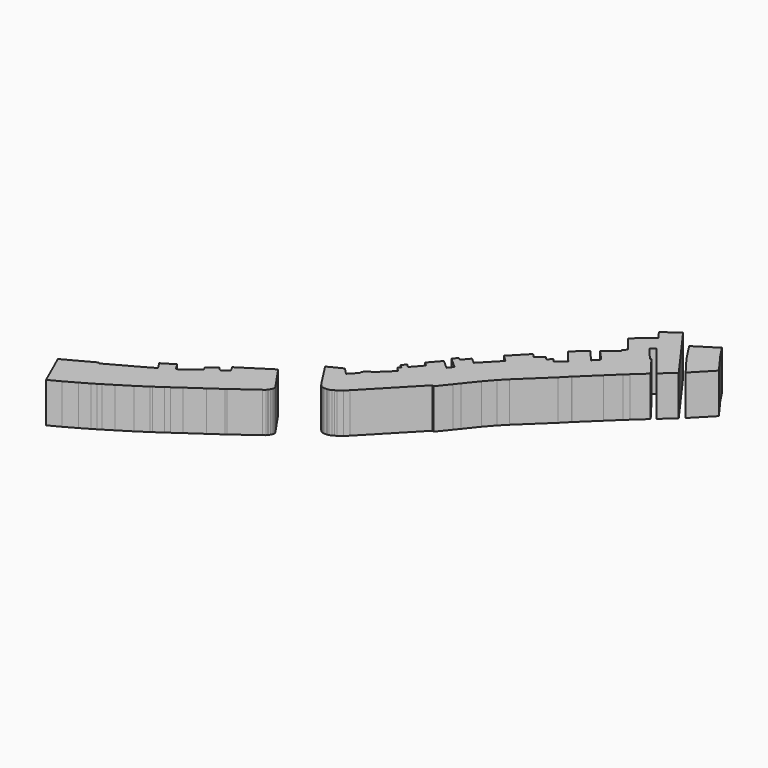
from build123d import *

# Parameters (mm, degrees)
F1_DEPTH = 350


with BuildPart() as f1:
    # F0 (on Top) → F1 (new body)
    with BuildSketch(Plane.XY):
        Polygon((-1735.5947, -1544.670012), (-1630.1847, -1782.160012), (-1606.0547, -1835.500012), (-1508.2647, -1784.700012), (-1407.9347, -1728.820012), (-1333.0047, -1685.386012), (-1443.4947, -1505.300012), (-1432.0647, -1497.680012), (-1475.2447, -1420.210012), (-1485.4047, -1410.050012), (-1556.5247, -1448.150012), align=None)
        Polygon((-1443.4947, -1505.300012), (-1333.0047, -1685.386012), (-1298.7147, -1665.320012), (-1268.2347, -1646.270012), (-1192.0347, -1599.280012), (-1081.5447, -1530.192012), (-1239.0247, -1290.670012), (-1376.1847, -1365.600012), (-1475.2447, -1420.210012), (-1432.0647, -1497.680012), align=None)
        Polygon((-1136.1547, -1232.250012), (-1239.0247, -1290.670012), (-1081.5447, -1530.192012), (-991.3747, -1471.010012), (-977.1507, -1461.358012), (-1117.6127, -1222.598012), align=None)
        Polygon((-1157.7447, -1161.130012), (-1117.6127, -1222.598012), (-977.1507, -1461.358012), (-908.8247, -1415.130012), (-873.2647, -1389.730012), (-1012.9647, -1159.860012), (-1051.0647, -1096.360012), align=None)
        Polygon((-557.0347, -1168.750012), (-708.1647, -937.610012), (-767.8547, -983.330012), (-794.5247, -956.660012), (-875.8047, -1015.080012), (-859.2947, -1045.560012), (-899.9347, -1074.770012), (-927.8747, -1096.360012), (-998.9947, -1149.700012), (-1012.9647, -1159.860012), (-873.2647, -1389.730012), (-804.6847, -1341.470012), (-672.6047, -1250.030012), (-568.4647, -1177.640012), align=None)
        Polygon((-546.8747, -777.590012), (-731.0247, -895.700012), (-708.1647, -937.610012), (-557.0347, -1168.750012), (-360.1847, -1026.510012), align=None)
        Polygon((-465.5947, -725.520012), (-546.8747, -777.590012), (-360.1847, -1026.510012), (-342.4047, -1012.540012), (-336.0547, -1006.190012), (-329.7047, -998.570012), (-323.3547, -985.870012), (-318.2747, -974.440012), (-315.7347, -969.360012), (-314.4647, -961.740012), (-313.1947, -955.390012), (-314.4647, -949.040012), (-317.0047, -942.690012), (-318.2747, -940.150012), align=None)
        Polygon((-118.8847, -429.610012), (-242.0747, -491.840012), (-106.1847, -702.660012), (-93.4847, -720.440012), (-75.7047, -736.950012), (-68.0847, -740.760012), (-57.9247, -744.570012), (-47.7647, -745.840012), (-26.1747, -745.840012), (-18.5547, -744.570012), (-5.8547, -742.030012), (10.6553, -734.410012), (27.1653, -725.520012), (42.4053, -715.360012), (76.6953, -689.960012), (109.7153, -659.480012), (504.6853, -249.270012), (352.2853, -113.380012), (287.5153, -49.880012), (203.6953, -145.130012), (177.0253, -118.460012), (146.5453, -152.750012), (173.2153, -176.880012), (152.8953, -197.200012), (189.7253, -232.760012), (146.5453, -272.130012), (61.4553, -354.680012), (46.2153, -357.220012), (42.4053, -358.490012), (37.3253, -361.030012), (25.8953, -369.920012), (20.8153, -375.000012), (18.2753, -376.270012), (8.1153, -388.970012), (5.5753, -396.590012), (3.0353, -405.480012), (1.7653, -414.370012), (1.7653, -419.450012), (-63.0047, -486.760012), align=None)
        Polygon((352.2853, -113.380012), (504.6853, -249.270012), (518.6553, -256.890012), (602.4753, -152.242012), (439.9153, -11.780012), (417.0553, 11.079988), (339.5853, 78.389988), (254.4953, -19.400012), (287.5153, -49.880012), align=None)
        Polygon((452.6153, 54.259988), (638.5433, -107.030012), (726.9353, 3.459988), (515.8613, 184.561988), (467.8553, 225.709988), (411.9753, 159.669988), (392.9253, 177.449988), (357.3653, 138.079988), align=None)
        Polygon((439.9153, -11.780012), (602.4753, -152.242012), (638.5433, -107.030012), (452.6153, 54.259988), (417.0553, 11.079988), align=None)
        Polygon((515.8613, 184.561988), (726.9353, 3.459988), (799.3253, 86.009988), (859.0153, 146.969988), (779.0053, 229.519988), (667.2453, 341.279988), align=None)
        Polygon((779.0053, 229.519988), (859.0153, 146.969988), (1098.2833, 375.061988), (931.4053, 536.859988), (906.0053, 568.609988), (871.7153, 533.049988), (843.7753, 560.989988), (784.0853, 505.109988), (751.0653, 539.399988), (611.3653, 394.619988), (667.2453, 341.279988), align=None)
        Polygon((931.4053, 536.859988), (1098.2833, 375.061988), (1165.0853, 442.879988), (1006.5893, 606.455988), (936.4853, 541.939988), align=None)
        Polygon((1006.5893, 606.455988), (1165.0853, 442.879988), (1166.3553, 444.149988), (1322.5653, 594.009988), (1166.3553, 764.189988), (1118.0953, 713.389988), (1031.9893, 813.973988), (1027.9253, 818.799988), (912.3553, 717.199988), (979.6653, 633.379988), align=None)
        Polygon((1166.3553, 764.189988), (1322.5653, 594.009988), (1417.8153, 685.449988), (1454.8993, 719.485988), (1283.1953, 912.779988), (1217.1553, 994.059988), (1185.4053, 963.579988), (1191.7553, 950.879988), (1082.5353, 856.899988), align=None)
        Polygon((1283.1953, 912.779988), (1454.8993, 719.485988), (1558.7853, 814.227988), (1428.2293, 985.423988), (1420.3553, 978.819988), (1320.0253, 1098.199988), (1356.8553, 1129.949988), (1269.2253, 1259.489988), (1264.1453, 1255.679988), (1232.1413, 1227.993988), (1113.0153, 1124.869988), (1184.8973, 1034.445988), (1217.1553, 994.059988), align=None)
        Polygon((1454.1373, 1007.267988), (1586.9793, 839.881988), (1700.5173, 943.513988), (1581.6453, 1108.613988), (1352.5373, 1426.113988), (1225.0293, 1333.149988), (1218.9333, 1328.577988), (1269.2253, 1259.489988), (1356.8553, 1129.949988), align=None)
        Polygon((1614.6653, 1135.029988), (1735.3153, 975.517988), (1894.5733, 1139.347988), (1783.5753, 1291.493988), (1763.2553, 1319.179988), (1755.1273, 1331.879988), (1699.5013, 1416.715988), (1509.0013, 1296.319988), align=None)
    extrude(amount=F1_DEPTH)


solid = f1.part
